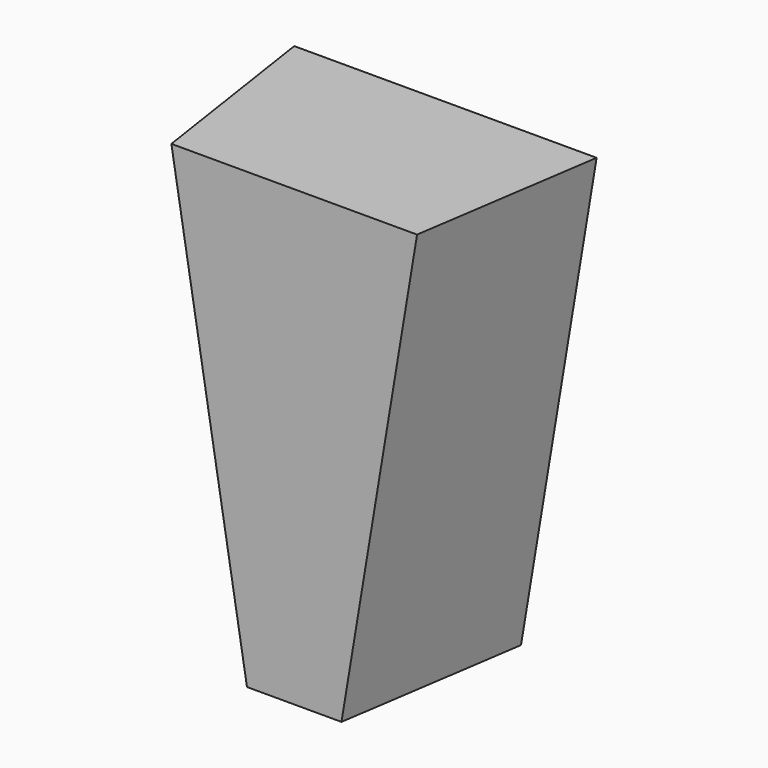
from build123d import *


with BuildPart() as f3:
    # F2 (on offset) → F3 section 0
    with BuildSketch(Plane.XZ.offset(5)):
        Polygon((-1.25, 0), (0, 0), (1.25, 0), (3.25, 12), (0, 12), (-3.25, 12), align=None)
    # F1 (on Front) → F3 section 1
    with BuildSketch(Plane.XZ):
        Polygon((4, 12), (0, 12), (-4, 12), (-2, 0), (0, 0), (2, 0), align=None)
    loft()


solid = f3.part
